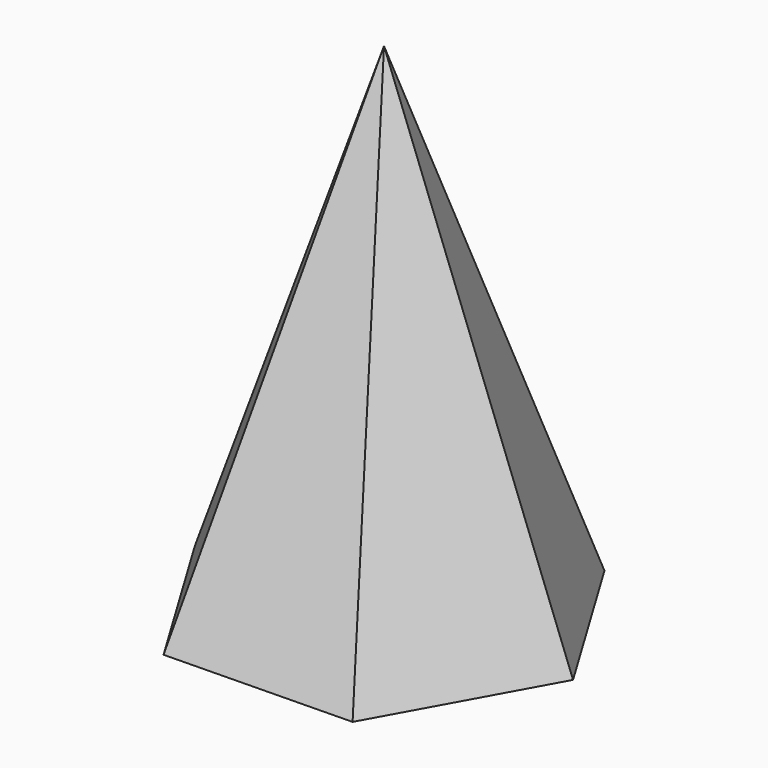
from build123d import *


with BuildPart() as f3:
    # F0 (on Top) → F3 section 0
    with BuildSketch(Plane.XY, mode=Mode.PRIVATE) as f3_s0:
        Polygon((-22.561089, -40.85453), (24.100516, -39.965741), (46.661605, 0.888788), (22.561089, 40.85453), (-24.100516, 39.965741), (-46.661605, -0.888788), align=None)
    loft([f3_s0.sketch, Vertex(0, 0, 125)])


solid = f3.part
